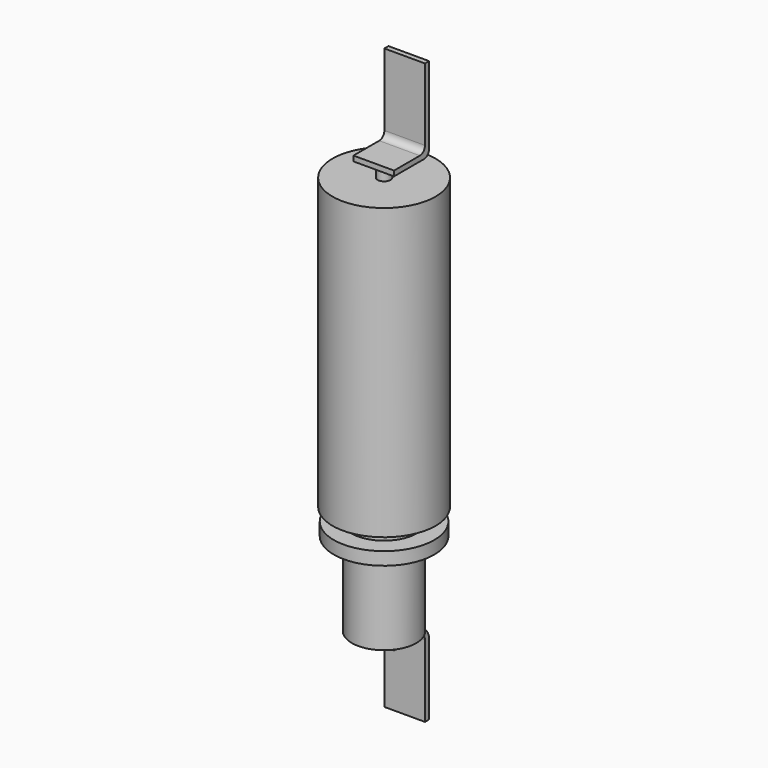
from build123d import *

# Parameters (mm, degrees)
F0_R     = 8
F1_DEPTH = 45
F2_R     = 5
F3_DEPTH = 17
F5_START = 2
F4_R     = 7.8
F4_R_2   = 5.05
F5_DEPTH = 2
F6_R     = 1
F7_DEPTH = 2
F9_DEPTH = 3.15


with BuildPart() as f1:
    # F0 (on Top) → F1 (new body)
    with BuildSketch(Plane.XY):
        Circle(F0_R)
    extrude(amount=F1_DEPTH)

    # F2 (on face) → F3 (join)
    with BuildSketch(Plane(origin=(0, 0, 0), x_dir=(1, 0, 0), z_dir=(0, 0, -1))):
        Circle(F2_R)
    extrude(amount=F3_DEPTH)

    # F6 (on face) → F7 (join)
    with BuildSketch(Plane.XY.offset(45)):
        Circle(F6_R)
    extrude(amount=F7_DEPTH)


with BuildPart() as f5:
    # F4 (on face) → F5 (new body)
    with BuildSketch(Plane(origin=(0, 0, 0), x_dir=(1, 0, 0), z_dir=(0, 0, -1)).offset(F5_START)):
        Circle(F4_R)
        Circle(F4_R_2, mode=Mode.SUBTRACT)
    extrude(amount=F5_DEPTH)


with BuildPart() as f9:
    # F8 (on Right) → F9 (new body, symmetric)
    with BuildSketch(Plane.YZ):
        with BuildLine():
            Line((-2, 47), (0, 47))
            Line((0, 47), (3.8, 47))
            ThreePointArc((3.8, 47), (4.5071067812, 47.2928932188), (4.8, 48))
            Line((4.8, 48), (4.8, 60))
            Line((4.8, 60), (4, 60))
            Line((4, 60), (4, 48.8))
            ThreePointArc((4, 48.8), (3.7071067812, 48.0928932188), (3, 47.8))
            Line((3, 47.8), (-2, 47.8))
            Line((-2, 47.8), (-2, 47))
        make_face()
    extrude(amount=F9_DEPTH, both=True)


with BuildPart() as f9b:
    # F8 (on Right) → F9, piece 2 (new body, symmetric)
    with BuildSketch(Plane.YZ):
        with BuildLine():
            Line((2.8, -17), (-2, -17))
            Line((-2, -17), (-2, -17.8))
            Line((-2, -17.8), (3, -17.8))
            ThreePointArc((3, -17.8), (3.7071067812, -18.0928932188), (4, -18.8))
            Line((4, -18.8), (4, -30))
            Line((4, -30), (4.8, -30))
            Line((4.8, -30), (4.8, -19))
            ThreePointArc((4.8, -19), (4.2142135624, -17.5857864376), (2.8, -17))
        make_face()
    extrude(amount=F9_DEPTH, both=True)


solid = Compound([f1.part, f5.part, f9.part, f9b.part])
